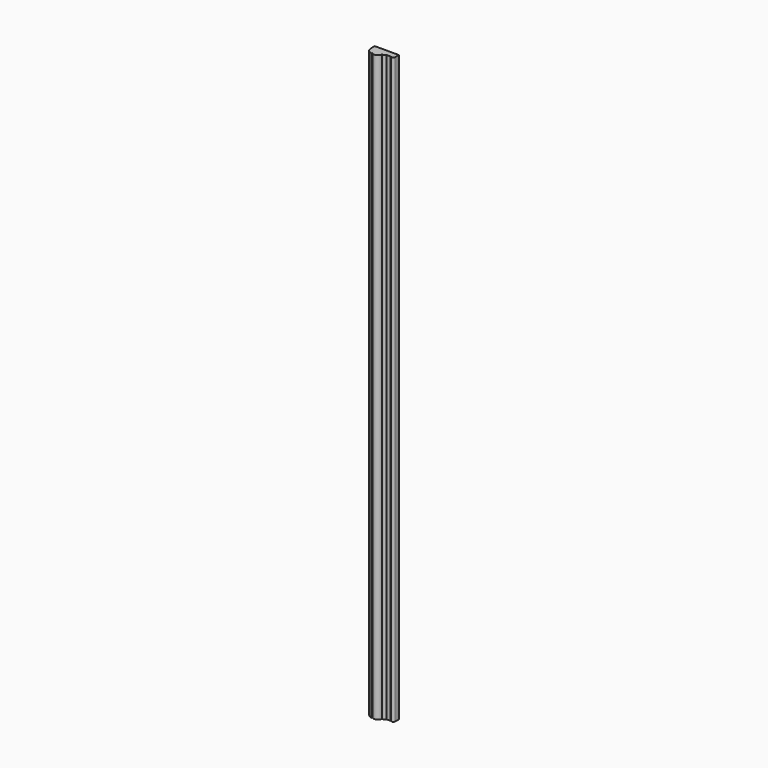
from build123d import *

# Parameters (mm, degrees)
F1_DEPTH = 2463.8


with BuildPart() as f1:
    # F0 (on Top) → F1 (new body)
    with BuildSketch(Plane.XY):
        with BuildLine():
            Line((-76.6292661428, 0), (-101.6, 0))
            ThreePointArc((-101.6, 0), (-94.4599412573, -18.8321711109), (-76.6292661428, -28.1968992203))
            Line((-76.6292661428, -28.1968992203), (-76.6292661428, -23.4324820225))
            ThreePointArc((-76.6292661428, -23.4324820225), (-81.1518934871, -11.7162410113), (-76.6292661428, 0))
        make_face()
        with BuildLine():
            ThreePointArc((-46.2903038691, -11.0448226221), (-50.4552862108, -6.3023355751), (-50.8, 0))
            Line((-50.8, 0), (-76.6292661428, 0))
            Line((-76.6292661428, 0), (-76.6292661428, -23.4324820225))
            ThreePointArc((-76.6292661428, -23.4324820225), (-57.1231335339, -27.8596664424), (-46.2903038691, -11.0448226221))
        make_face()
        with BuildLine():
            Line((-76.6292661428, -23.4324820225), (-76.6292661428, 0))
            ThreePointArc((-76.6292661428, 0), (-81.1518934871, -11.7162410113), (-76.6292661428, -23.4324820225))
        make_face()
        with BuildLine():
            ThreePointArc((-46.2903038691, -11.0448226221), (-47.5712076403, -5.1247414737), (-50.8, 0))
            ThreePointArc((-50.8, 0), (-50.4552862108, -6.3023355751), (-46.2903038691, -11.0448226221))
        make_face()
        with BuildLine():
            Line((-32.2345308959, -5.3057295499), (-32.2345308959, 0))
            Line((-32.2345308959, 0), (-50.8, 0))
            ThreePointArc((-50.8, 0), (-47.5712076403, -5.1247414737), (-46.2903038691, -11.0448226221))
            ThreePointArc((-46.2903038691, -11.0448226221), (-37.8677946479, -11.5908855378), (-32.2345308959, -5.3057295499))
        make_face()
        with BuildLine():
            Line((-14.9983884767, -5.9194555506), (-14.9983884767, 0))
            Line((-14.9983884767, 0), (-32.2345308959, 0))
            ThreePointArc((-32.2345308959, 0), (-31.8628958529, -2.652864775), (-32.2345308959, -5.3057295499))
            Line((-32.2345308959, -5.3057295499), (-32.2345308959, -5.9194555506))
            Line((-32.2345308959, -5.9194555506), (-14.9983884767, -5.9194555506))
        make_face()
        with BuildLine():
            ThreePointArc((-32.2345308959, -5.3057295499), (-31.8628958529, -2.652864775), (-32.2345308959, 0))
            Line((-32.2345308959, 0), (-32.2345308959, -5.3057295499))
        make_face()
        with BuildLine():
            ThreePointArc((-14.9983884767, 0), (-7.4991942383, -7.4991942383), (0, 0))
            Line((0, 0), (-14.9983884767, 0))
        make_face()
        Polygon((-14.9983884767, 0), (0, 0), (0, 19.05), (-101.6, 19.05), (-101.6, 0), (-76.6292661428, 0), (-50.8, 0), (-32.2345308959, 0), align=None)
    extrude(amount=F1_DEPTH)


solid = f1.part
